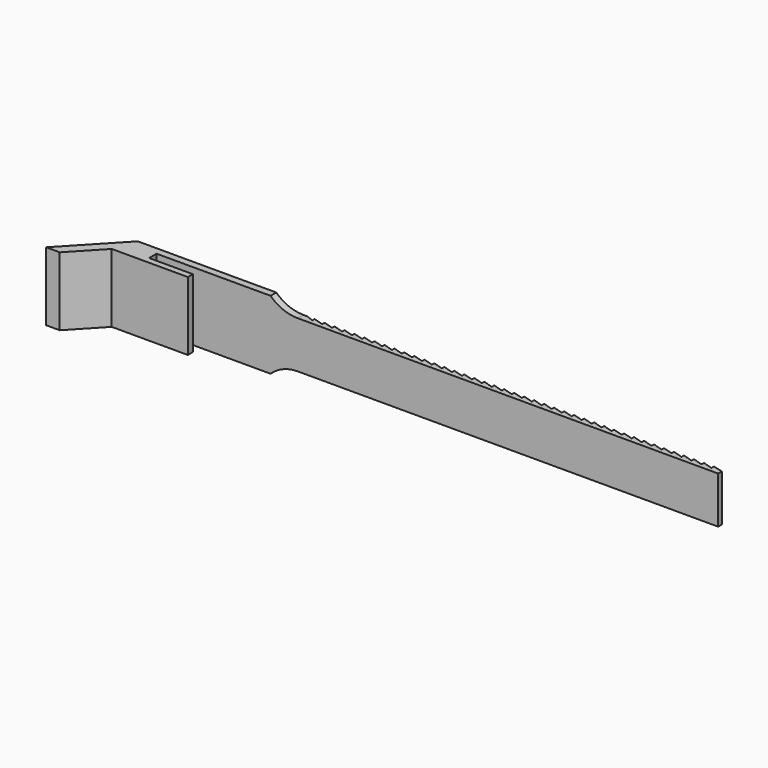
from build123d import *

# Parameters (mm, degrees)
PAD_DEPTH    = 22
POCKET_DEPTH = 20


with BuildPart() as part:
    # Sketch → Pad (new body)
    with BuildSketch(Plane.XY):
        Polygon((0.810902, 9.567203), (25.199765, 9.567203), (25.199765, 11.567203), (11.199765, 11.567203), (11.199765, 14.567203), (191.199765, 14.567203), (191.199765, 16.067203), (187.999779, 16.867203), (187.999779, 15.867203), (184.799779, 16.867203), (184.799779, 15.867203), (181.599779, 16.867203), (181.599779, 15.867203), (178.399779, 16.867203), (178.399779, 15.867203), (175.199779, 16.867203), (175.199779, 15.867203), (171.999779, 16.867203), (171.999779, 15.867203), (168.799779, 16.867203), (168.799779, 15.867203), (165.599779, 16.867203), (165.599779, 15.867203), (162.399779, 16.867203), (162.399779, 15.867203), (159.199779, 16.867203), (159.199779, 15.867203), (155.999779, 16.867203), (155.999779, 15.867203), (152.799779, 16.867203), (152.799779, 15.867203), (149.599779, 16.867203), (149.599779, 15.867203), (146.399779, 16.867203), (146.399779, 15.867203), (143.199779, 16.867203), (143.199779, 15.867203), (139.999779, 16.867203), (139.999779, 15.867203), (136.799779, 16.867203), (136.799779, 15.867203), (133.599779, 16.867203), (133.599779, 15.867203), (130.399779, 16.867203), (130.399779, 15.867203), (127.199779, 16.867203), (127.199779, 15.867203), (123.999779, 16.867203), (123.999779, 15.867203), (120.799779, 16.867203), (120.799779, 15.867203), (117.599779, 16.867203), (117.599779, 15.867203), (114.399779, 16.867203), (114.399779, 15.867203), (111.199779, 16.867203), (111.199779, 15.867203), (107.999779, 16.867203), (107.999779, 15.867203), (104.799779, 16.867203), (104.799779, 15.867203), (101.599779, 16.867203), (101.599779, 15.867203), (98.399779, 16.867203), (98.399779, 15.867203), (95.199779, 16.867203), (95.199779, 15.867203), (91.999779, 16.867203), (91.999779, 15.867203), (88.799779, 16.867203), (88.799779, 15.867203), (85.599779, 16.867203), (85.599779, 15.867203), (82.399779, 16.867203), (82.399779, 15.867203), (79.199779, 16.867203), (79.199779, 15.867203), (75.999779, 16.867203), (75.999779, 15.867203), (72.799779, 16.867203), (72.799779, 15.867203), (69.599779, 16.867203), (69.599779, 15.867203), (66.399779, 16.867203), (66.399779, 15.867203), (63.199779, 16.867203), (63.199779, 15.867203), (59.999772, 16.867203), (59.999772, 15.867203), (57.832203, 16.867203), (3.316658, 16.867203), (-12.582002, 0.001582), (-8.206291, 0.001582), align=None)
    extrude(amount=PAD_DEPTH)

    # Sketch001 (on Face91 of Pad) → Pocket (cut)
    with BuildSketch(Plane(origin=(0, 16.867203, 0), x_dir=(-1, 0, 0), z_dir=(0, 1, 0))):
        with BuildLine():
            ThreePointArc((-197.532818, 43.580935), (-210.073285, 31.040467), (-197.532818, 18.5))
            Line((-197.532818, 18.5), (-56.404323, 18.5))
            ThreePointArc((-56.404323, 18.5), (-43.863855, 31.040467), (-56.404323, 43.580935))
            Line((-197.532818, 43.580935), (-56.404323, 43.580935))
        make_face()
        with BuildLine():
            ThreePointArc((-197.532818, 3.5), (-210.073285, -9.040467), (-197.532818, -21.580935))
            Line((-197.532818, -21.580935), (-56.404323, -21.580935))
            ThreePointArc((-56.404323, -21.580935), (-43.863855, -9.040467), (-56.404323, 3.5))
            Line((-197.532818, 3.5), (-56.404323, 3.5))
        make_face()
    extrude(amount=-POCKET_DEPTH, mode=Mode.SUBTRACT)


solid = part.part
